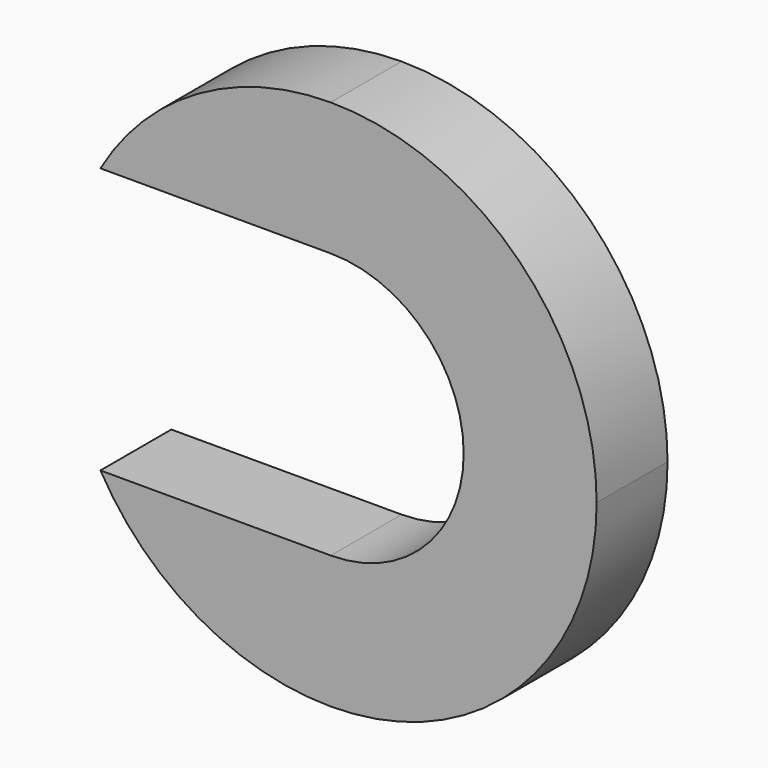
from build123d import *

# Parameters (mm, degrees)
F0_W     = 19.05
F0_H     = 19.05
F1_DEPTH = 3.175
F3_DEPTH = 25.4
F5_DEPTH = 25.4


with BuildPart() as f1:
    # F0 (on Front) → F1 (new body)
    with BuildSketch(Plane.XZ):
        Rectangle(F0_W, F0_H)
    extrude(amount=F1_DEPTH)

    # F2 (on face) → F3 (cut)
    with BuildSketch(Plane.XZ.offset(3.175)):
        with BuildLine():
            ThreePointArc((0, -4.7625), (3.3675960454, -3.3675960454), (4.7625, 0))
            ThreePointArc((4.7625, 0), (3.3675960454, 3.3675960454), (0, 4.7625))
            ThreePointArc((0, 4.7625), (-4.7625, 0), (0, -4.7625))
        make_face()
        with BuildLine():
            ThreePointArc((0, -4.7625), (-4.7625, 0), (0, 4.7625))
            Line((0, 4.7625), (-9.525, 4.7625))
            Line((-9.525, 4.7625), (-9.525, -4.7625))
            Line((-9.525, -4.7625), (0, -4.7625))
        make_face()
    extrude(amount=-F3_DEPTH, mode=Mode.SUBTRACT)

    # F4 (on face) → F5 (cut)
    with BuildSketch(Plane.XZ.offset(3.175)):
        with BuildLine():
            ThreePointArc((-8.248891971, 4.7625), (-4.7625, 8.248891971), (0, 9.525))
            Line((0, 9.525), (-9.525, 9.525))
            Line((-9.525, 9.525), (-9.525, 4.7625))
            Line((-9.525, 4.7625), (-8.248891971, 4.7625))
        make_face()
        with BuildLine():
            ThreePointArc((0, 9.525), (6.7351920908, 6.7351920908), (9.525, 0))
            Line((9.525, 0), (9.525, 9.525))
            Line((9.525, 9.525), (0, 9.525))
        make_face()
        with BuildLine():
            Line((9.525, -9.525), (9.525, 0))
            ThreePointArc((9.525, 0), (6.7351920908, -6.7351920908), (0, -9.525))
            Line((0, -9.525), (9.525, -9.525))
        make_face()
        with BuildLine():
            Line((-9.525, -9.525), (0, -9.525))
            ThreePointArc((0, -9.525), (-4.7625, -8.248891971), (-8.248891971, -4.7625))
            Line((-8.248891971, -4.7625), (-9.525, -4.7625))
            Line((-9.525, -4.7625), (-9.525, -9.525))
        make_face()
    extrude(amount=-F5_DEPTH, mode=Mode.SUBTRACT)


solid = f1.part
